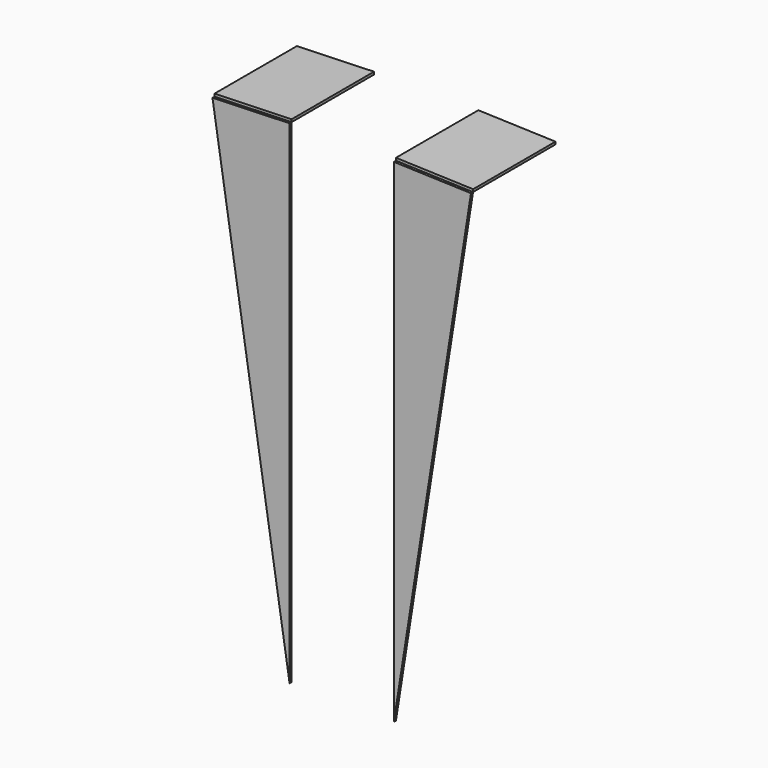
from build123d import *

# Parameters (mm, degrees)
F1_DEPTH = 1
F2_DEPTH = 40


with BuildPart() as f1:
    # F0 (on Front) → F1 (new body)
    with BuildSketch(Plane.XZ):
        Polygon((50.199995, 94.250556), (20.25, 95.25), (20.25, -96.25), align=None)
        Polygon((-20.25, -96.25), (-20.25, 95.25), (-50.199995, 94.250556), align=None)
    extrude(amount=F1_DEPTH)


with BuildPart() as f2:
    # F0 (on Front) → F2 (new body)
    with BuildSketch(Plane.XZ):
        Polygon((50.233329, 95.25), (20.25, 96.25), (20.25, 95.25), (50.199995, 94.250556), align=None)
        Polygon((-20.25, 95.25), (-20.25, 96.25), (-50.233329, 95.25), (-50.199995, 94.250556), align=None)
    extrude(amount=-F2_DEPTH)


solid = Compound([f1.part, f2.part])
